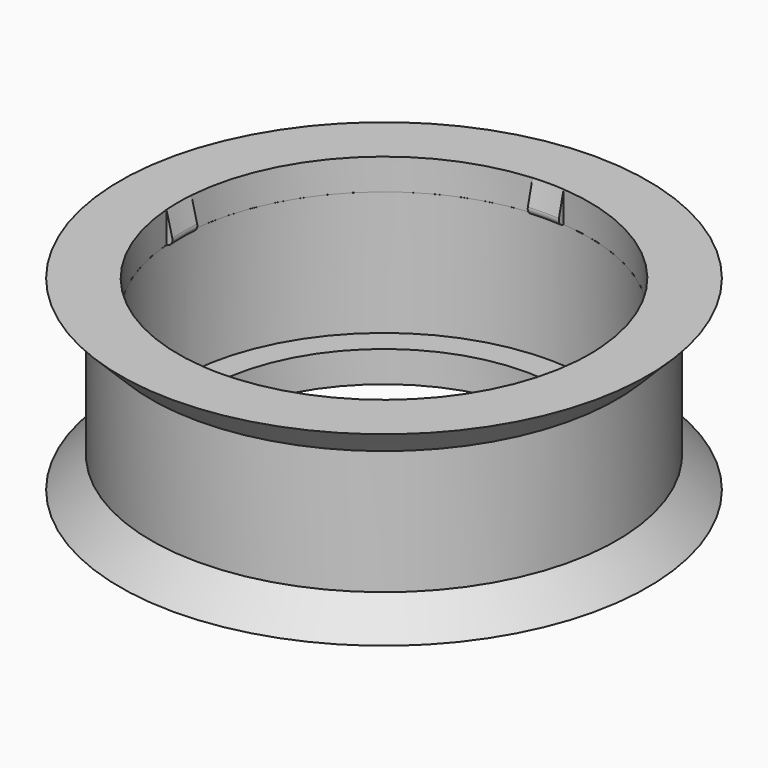
from build123d import *

# Parameters (mm, degrees)
F3_START = 2
F3_DEPTH = 10.001


with BuildPart() as f1:
    # F0 (on Right) → F1 (revolve)
    with BuildSketch(Plane.YZ):
        with BuildLine():
            Line((-17, 0), (-11.5, 0))
            Line((-11.5, 0), (-11.5, 2))
            Line((-11.5, 2), (-13.25, 2))
            Line((-13.25, 2), (-13.25, 10))
            Line((-13.25, 10), (-13.2623105626, 10))
            ThreePointArc((-13.2623105626, 10), (-12.9470283874, 10.1538351162), (-12.8742535625, 10.49701425))
            Line((-12.8742535625, 10.49701425), (-13.25, 12))
            Line((-13.25, 12), (-17, 12))
            Line((-17, 12), (-15, 10))
            Line((-15, 10), (-15, 2))
            Line((-15, 2), (-17, 0))
        make_face()
    revolve(axis=Axis((0, 0, 6), (0, 0, 1)))

    # F2 (on Top) → F3 (cut)
    with BuildSketch(Plane.XY.offset(F3_START)):
        with BuildLine():
            ThreePointArc((-1, 13.2122102617), (-9.3691648507, 9.3691648507), (-13.2122102617, 1))
            Line((-13.2122102617, 1), (-1, 1))
            Line((-1, 1), (-1, 13.2122102617))
        make_face()
        with BuildLine():
            ThreePointArc((13.2122102617, 1), (9.3691648507, 9.3691648507), (1, 13.2122102617))
            Line((1, 13.2122102617), (1, 1))
            Line((1, 1), (13.2122102617, 1))
        make_face()
        with BuildLine():
            Line((1, -1), (1, -13.2122102617))
            ThreePointArc((1, -13.2122102617), (9.3691648507, -9.3691648507), (13.2122102617, -1))
            Line((13.2122102617, -1), (1, -1))
        make_face()
        with BuildLine():
            Line((-1, -1), (-13.2122102617, -1))
            ThreePointArc((-13.2122102617, -1), (-9.3691648507, -9.3691648507), (-1, -13.2122102617))
            Line((-1, -13.2122102617), (-1, -1))
        make_face()
    extrude(amount=F3_DEPTH, mode=Mode.SUBTRACT)


solid = f1.part
